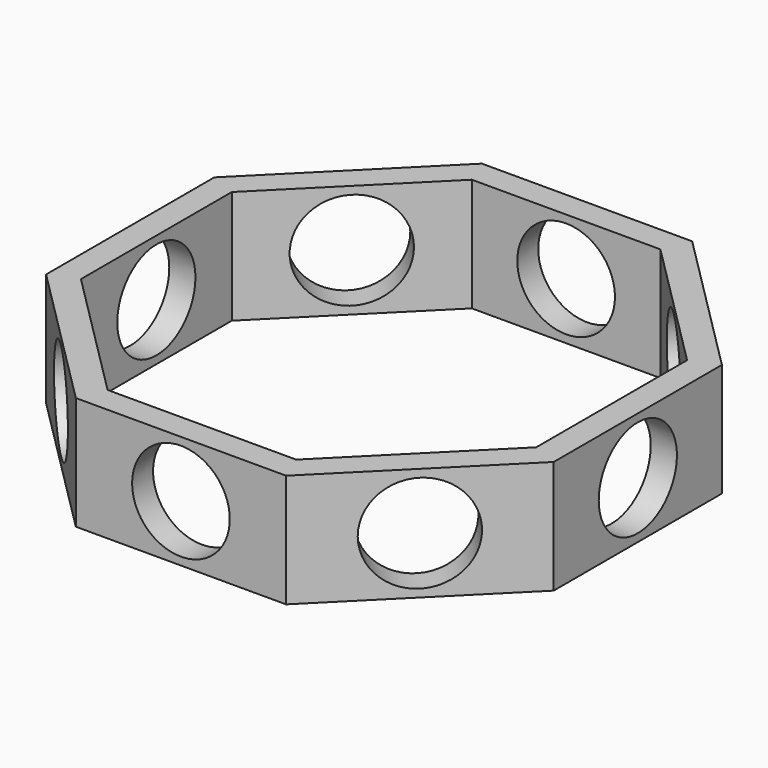
from build123d import *

# Parameters (mm, degrees)
CYLINDER002_R               = 34.5
CYLINDER002_DEPTH           = 20
COMPOUND_PLACEMENT_ANGLE    = 45
CYLINDER003_R               = 34.5
CYLINDER003_DEPTH           = 20
COMPOUND001_PLACEMENT_ANGLE = 90
CYLINDER004_R               = 34.5
CYLINDER004_DEPTH           = 20
COMPOUND002_PLACEMENT_ANGLE = 135
CYLINDER005_R               = 34.5
CYLINDER005_DEPTH           = 20
COMPOUND003_PLACEMENT_ANGLE = 180
CYLINDER006_R               = 34.5
CYLINDER006_DEPTH           = 20
COMPOUND004_PLACEMENT_ANGLE = 225
CYLINDER007_R               = 34.5
CYLINDER007_DEPTH           = 20
COMPOUND005_PLACEMENT_ANGLE = 270
CYLINDER008_R               = 34.5
CYLINDER008_DEPTH           = 20
COMPOUND006_PLACEMENT_ANGLE = 315
CYLINDER_R                  = 34.5
CYLINDER_DEPTH              = 20
EXTRUDE001_DEPTH            = 80
EXTRUDE_DEPTH               = 80


with BuildPart() as compound:
    # Cylinder002 → Cylinder002 (new body)
    with BuildSketch(Plane.XZ.offset(-179.75)):
        Circle(CYLINDER002_R)
    extrude(amount=CYLINDER002_DEPTH)


with BuildPart() as compound_1:
    # Compound placement: moved
    add(compound.part.rotate(Axis((0, 0, 0), (0, 0, 1)), COMPOUND_PLACEMENT_ANGLE))


with BuildPart() as compound001:
    # Cylinder003 → Cylinder003 (new body)
    with BuildSketch(Plane.XZ.offset(-179.75)):
        Circle(CYLINDER003_R)
    extrude(amount=CYLINDER003_DEPTH)


with BuildPart() as compound001_1:
    # Compound001 placement: moved
    add(compound001.part.rotate(Axis((0, 0, 0), (0, 0, 1)), COMPOUND001_PLACEMENT_ANGLE))


with BuildPart() as compound002:
    # Cylinder004 → Cylinder004 (new body)
    with BuildSketch(Plane.XZ.offset(-179.75)):
        Circle(CYLINDER004_R)
    extrude(amount=CYLINDER004_DEPTH)


with BuildPart() as compound002_1:
    # Compound002 placement: moved
    add(compound002.part.rotate(Axis((0, 0, 0), (0, 0, 1)), COMPOUND002_PLACEMENT_ANGLE))


with BuildPart() as compound003:
    # Cylinder005 → Cylinder005 (new body)
    with BuildSketch(Plane.XZ.offset(-179.75)):
        Circle(CYLINDER005_R)
    extrude(amount=CYLINDER005_DEPTH)


with BuildPart() as compound003_1:
    # Compound003 placement: moved
    add(compound003.part.rotate(Axis((0, 0, 0), (0, 0, 1)), COMPOUND003_PLACEMENT_ANGLE))


with BuildPart() as compound004:
    # Cylinder006 → Cylinder006 (new body)
    with BuildSketch(Plane.XZ.offset(-179.75)):
        Circle(CYLINDER006_R)
    extrude(amount=CYLINDER006_DEPTH)


with BuildPart() as compound004_1:
    # Compound004 placement: moved
    add(compound004.part.rotate(Axis((0, 0, 0), (0, 0, 1)), COMPOUND004_PLACEMENT_ANGLE))


with BuildPart() as compound005:
    # Cylinder007 → Cylinder007 (new body)
    with BuildSketch(Plane.XZ.offset(-179.75)):
        Circle(CYLINDER007_R)
    extrude(amount=CYLINDER007_DEPTH)


with BuildPart() as compound005_1:
    # Compound005 placement: moved
    add(compound005.part.rotate(Axis((0, 0, 0), (0, 0, 1)), COMPOUND005_PLACEMENT_ANGLE))


with BuildPart() as compound006:
    # Cylinder008 → Cylinder008 (new body)
    with BuildSketch(Plane.XZ.offset(-179.75)):
        Circle(CYLINDER008_R)
    extrude(amount=CYLINDER008_DEPTH)


with BuildPart() as compound006_1:
    # Compound006 placement: moved
    add(compound006.part.rotate(Axis((0, 0, 0), (0, 0, 1)), COMPOUND006_PLACEMENT_ANGLE))


with BuildPart() as compound007:
    # Cylinder → Cylinder (new body)
    with BuildSketch(Plane.XZ.offset(-179.75)):
        Circle(CYLINDER_R)
    extrude(amount=CYLINDER_DEPTH)

    # Compound007: union Compound, Compound001, Compound002, Compound003, Compound004, Compound005, Compound006
    add(compound_1.part)
    add(compound001_1.part)
    add(compound002_1.part)
    add(compound003_1.part)
    add(compound004_1.part)
    add(compound005_1.part)
    add(compound006_1.part)


with BuildPart() as extrude001:
    # Wire001 → Extrude001 (new body)
    with BuildSketch(Plane.XY.offset(-40)):
        Polygon((66.59, 160.76), (160.76, 66.59), (160.76, -66.59), (66.59, -160.76), (-66.59, -160.76), (-160.76, -66.59), (-160.76, 66.59), (-66.59, 160.76), align=None)
    extrude(amount=EXTRUDE001_DEPTH)


with BuildPart() as cut001:
    # Wire → Extrude (new body)
    with BuildSketch(Plane.XY.offset(-40)):
        Polygon((74.24, 179.24), (179.24, 74.24), (179.24, -74.24), (74.24, -179.24), (-74.24, -179.24), (-179.24, -74.24), (-179.24, 74.24), (-74.24, 179.24), align=None)
    extrude(amount=EXTRUDE_DEPTH)

    # Cut: cut Extrude001
    add(extrude001.part, mode=Mode.SUBTRACT)

    # Cut001: cut Compound007
    add(compound007.part, mode=Mode.SUBTRACT)


solid = cut001.part
